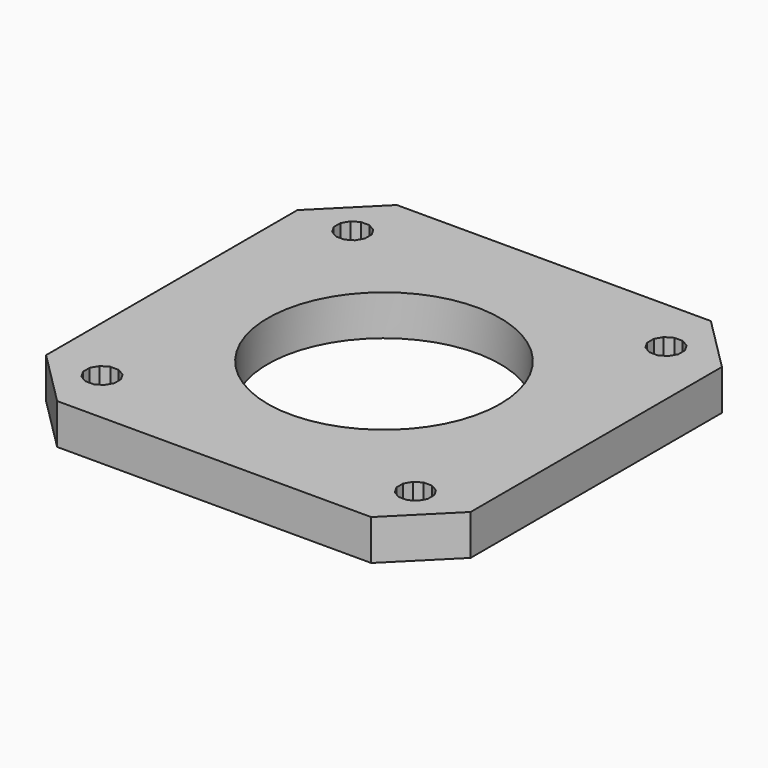
from build123d import *

# Parameters (mm, degrees)
CYLINDER_R               = 11.5
CYLINDER_DEPTH           = 8.8
PRISM001_DEPTH           = 16
CUBE002_W                = 5
CUBE002_H                = 10
CUBE002_DEPTH            = 4.2
UNION001_PLACEMENT_ANGLE = 135
PRISM002_DEPTH           = 16
CUBE003_W                = 5
CUBE003_H                = 10
CUBE003_DEPTH            = 4.2
UNION002_PLACEMENT_ANGLE = 225.000007
PRISM003_DEPTH           = 16
CUBE004_W                = 5
CUBE004_H                = 10
CUBE004_DEPTH            = 4.2
UNION003_PLACEMENT_ANGLE = -45
PRISM_DEPTH              = 16
CUBE001_W                = 5
CUBE001_H                = 10
CUBE001_DEPTH            = 4.2
UNION_PLACEMENT_ANGLE    = 45
CUBE_W                   = 42
CUBE_H                   = 42
CUBE_DEPTH               = 4


with BuildPart() as cylinder:
    # cylinder → cylinder (new body)
    with BuildSketch(Plane.XY.offset(-4.4)):
        Circle(CYLINDER_R)
    extrude(amount=CYLINDER_DEPTH)


with BuildPart() as prism001:
    # prism001 → prism001 (new body)
    with BuildSketch(Plane(origin=(21.9203, 0, -8), x_dir=(1, 0, 0), z_dir=(0, 0, 1))):
        Polygon((1.6, 0), (1.385641, 0.8), (0.8, 1.385641), (0, 1.6), (-0.8, 1.385641), (-1.385641, 0.8), (-1.6, 0), (-1.385641, -0.8), (-0.8, -1.385641), (0, -1.6), (0.8, -1.385641), (1.385641, -0.8), align=None)
    extrude(amount=PRISM001_DEPTH)


with BuildPart() as union001:
    # cube002 → cube002 (new body)
    with BuildSketch(Plane(origin=(25.8345, -5, -0.1), x_dir=(1, 0, 0), z_dir=(0, 0, 1))):
        with Locations((2.5, 5)):
            Rectangle(CUBE002_W, CUBE002_H)
    extrude(amount=CUBE002_DEPTH)

    # union001: union prism001
    add(prism001.part)


with BuildPart() as union001_1:
    # union001 placement: moved
    add(union001.part.rotate(Axis((0, 0, 0), (0, 0, 1)), UNION001_PLACEMENT_ANGLE))


with BuildPart() as prism002:
    # prism002 → prism002 (new body)
    with BuildSketch(Plane(origin=(21.9203, 0, -8), x_dir=(1, 0, 0), z_dir=(0, 0, 1))):
        Polygon((1.6, 0), (1.385641, 0.8), (0.8, 1.385641), (0, 1.6), (-0.8, 1.385641), (-1.385641, 0.8), (-1.6, 0), (-1.385641, -0.8), (-0.8, -1.385641), (0, -1.6), (0.8, -1.385641), (1.385641, -0.8), align=None)
    extrude(amount=PRISM002_DEPTH)


with BuildPart() as union002:
    # cube003 → cube003 (new body)
    with BuildSketch(Plane(origin=(25.8345, -5, -0.1), x_dir=(1, 0, 0), z_dir=(0, 0, 1))):
        with Locations((2.5, 5)):
            Rectangle(CUBE003_W, CUBE003_H)
    extrude(amount=CUBE003_DEPTH)

    # union002: union prism002
    add(prism002.part)


with BuildPart() as union002_1:
    # union002 placement: moved
    add(union002.part.rotate(Axis((0, 0, 0), (0, 0, 1)), UNION002_PLACEMENT_ANGLE))


with BuildPart() as prism003:
    # prism003 → prism003 (new body)
    with BuildSketch(Plane(origin=(21.9203, 0, -8), x_dir=(1, 0, 0), z_dir=(0, 0, 1))):
        Polygon((1.6, 0), (1.385641, 0.8), (0.8, 1.385641), (0, 1.6), (-0.8, 1.385641), (-1.385641, 0.8), (-1.6, 0), (-1.385641, -0.8), (-0.8, -1.385641), (0, -1.6), (0.8, -1.385641), (1.385641, -0.8), align=None)
    extrude(amount=PRISM003_DEPTH)


with BuildPart() as union003:
    # cube004 → cube004 (new body)
    with BuildSketch(Plane(origin=(25.8345, -5, -0.1), x_dir=(1, 0, 0), z_dir=(0, 0, 1))):
        with Locations((2.5, 5)):
            Rectangle(CUBE004_W, CUBE004_H)
    extrude(amount=CUBE004_DEPTH)

    # union003: union prism003
    add(prism003.part)


with BuildPart() as union003_1:
    # union003 placement: moved
    add(union003.part.rotate(Axis((0, 0, 0), (0, 0, 1)), UNION003_PLACEMENT_ANGLE))


with BuildPart() as prism:
    # prism → prism (new body)
    with BuildSketch(Plane(origin=(21.9203, 0, -8), x_dir=(1, 0, 0), z_dir=(0, 0, 1))):
        Polygon((1.6, 0), (1.385641, 0.8), (0.8, 1.385641), (0, 1.6), (-0.8, 1.385641), (-1.385641, 0.8), (-1.6, 0), (-1.385641, -0.8), (-0.8, -1.385641), (0, -1.6), (0.8, -1.385641), (1.385641, -0.8), align=None)
    extrude(amount=PRISM_DEPTH)


with BuildPart() as union004:
    # cube001 → cube001 (new body)
    with BuildSketch(Plane(origin=(25.8345, -5, -0.1), x_dir=(1, 0, 0), z_dir=(0, 0, 1))):
        with Locations((2.5, 5)):
            Rectangle(CUBE001_W, CUBE001_H)
    extrude(amount=CUBE001_DEPTH)

    # union: union prism
    add(prism.part)


with BuildPart() as union004_1:
    # union placement: moved
    add(union004.part.rotate(Axis((0, 0, 0), (0, 0, 1)), UNION_PLACEMENT_ANGLE))

    # Group: union union001, union002, union003
    add(union001_1.part)
    add(union002_1.part)
    add(union003_1.part)

    # union004: union cylinder
    add(cylinder.part)


with BuildPart() as difference:
    # cube → cube (new body)
    with BuildSketch(Plane(origin=(-21, -21, 0), x_dir=(1, 0, 0), z_dir=(0, 0, 1))):
        with Locations((21, 21)):
            Rectangle(CUBE_W, CUBE_H)
    extrude(amount=CUBE_DEPTH)

    # difference: cut union004
    add(union004_1.part, mode=Mode.SUBTRACT)


solid = difference.part
